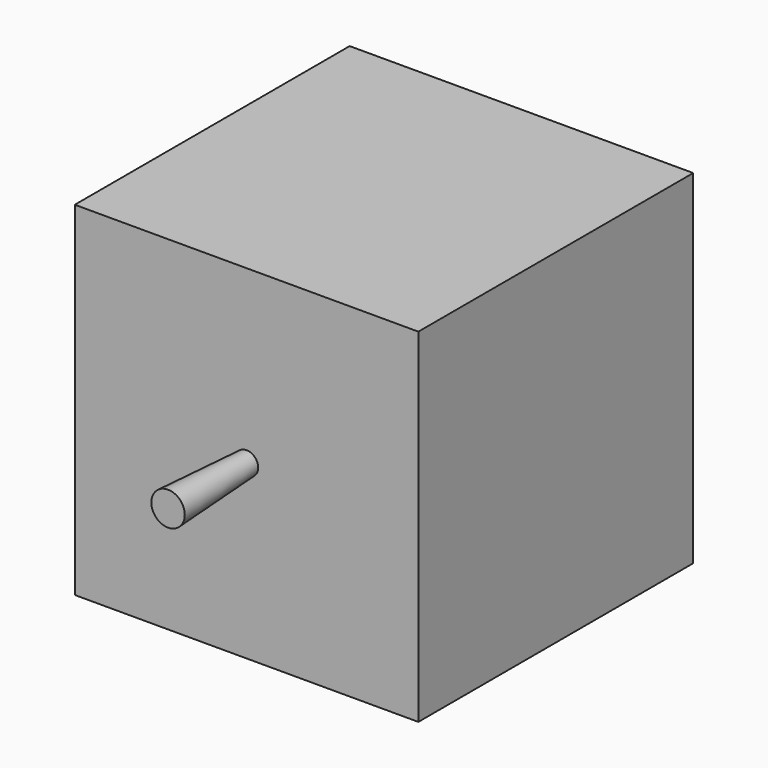
from build123d import *

# Parameters (mm, degrees)
F0_W          = 88.9
F0_H          = 88.9
F1_DEPTH      = 44.45
F1_DEPTH_BACK = 44.45
F2_R          = 44.45
F3_DEPTH      = 88.901
F3_TAPER      = 25
F4_R          = 2.99524919
F5_DEPTH      = 88.9
F5_TAPER      = -4.5
F5_DEPTH_BACK = 25.4
F5_TAPER_BACK = -3


with BuildPart() as f1:
    # F0 (on Top) → F1 (new body, two sides)
    with BuildSketch(Plane.XY) as f1_sk:
        Rectangle(F0_W, F0_H)
    extrude(amount=F1_DEPTH)
    extrude(f1_sk.sketch, amount=-F1_DEPTH_BACK)

    # F2 (on face) → F3 (cut, through all)
    with BuildSketch(Plane(origin=(0, 44.45, 0), x_dir=(-1, 0, 0), z_dir=(0, 1, 0))):
        Circle(F2_R)
    extrude(amount=-F3_DEPTH, taper=F3_TAPER, mode=Mode.SUBTRACT)


with BuildPart() as f5:
    # F4 (on face) → F5 (new body, two sides)
    with BuildSketch(Plane.XZ.offset(44.45)) as f5_sk:
        Circle(F4_R)
    extrude(amount=-F5_DEPTH, taper=F5_TAPER)
    extrude(f5_sk.sketch, amount=F5_DEPTH_BACK, taper=F5_TAPER_BACK)


solid = Compound([f1.part, f5.part])
